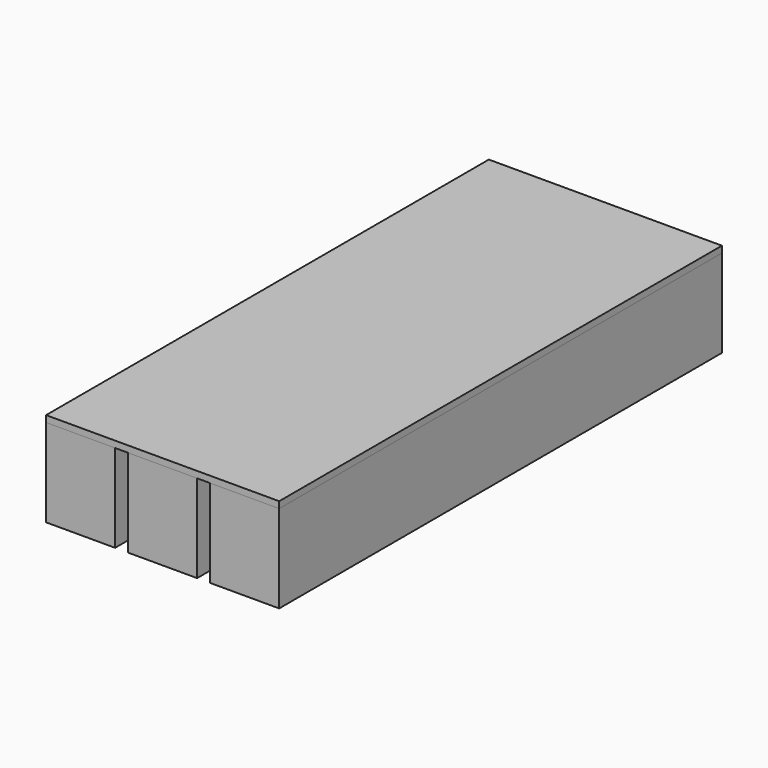
from build123d import *

# Parameters (mm, degrees)
F0_W     = 10.6
F0_H     = 85
F1_DEPTH = 13.5
F2_W     = 35.8
F2_H     = 85
F3_DEPTH = 1


with BuildPart() as f1:
    # F0 (on Top) → F1 (new body)
    with BuildSketch(Plane.XY):
        Rectangle(F0_W, F0_H)
        with Locations((12.6, 0)):
            Rectangle(F0_W, F0_H)
        with Locations((25.2, 0)):
            Rectangle(F0_W, F0_H)
    extrude(amount=F1_DEPTH)


with BuildPart() as f3:
    # F2 (on face) → F3 (new body)
    with BuildSketch(Plane.XY.offset(13.5)):
        with Locations((12.6, 0)):
            Rectangle(F2_W, F2_H)
    extrude(amount=F3_DEPTH)


solid = Compound([f1.part, f3.part])
